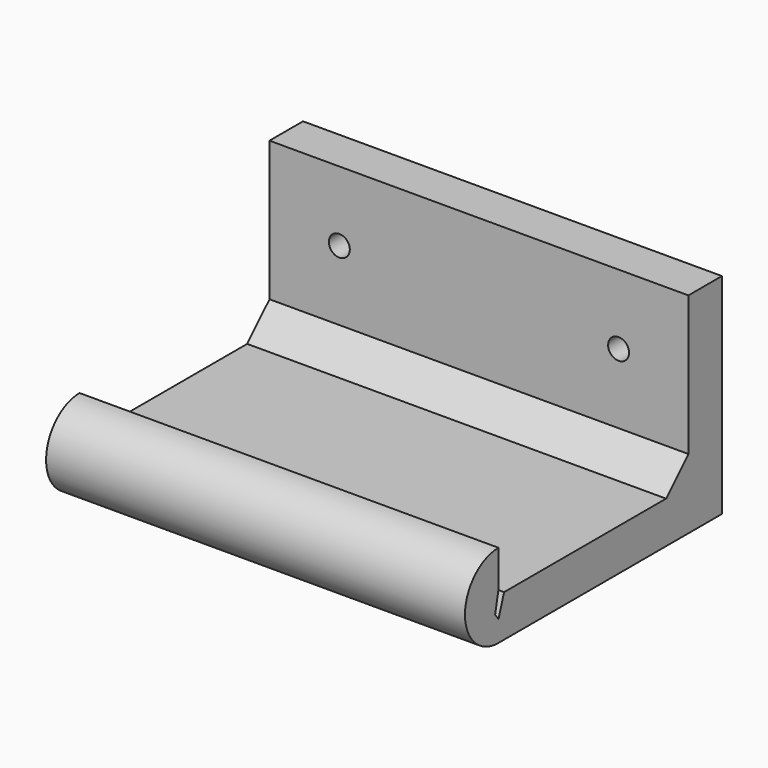
from build123d import *

# Parameters (mm, degrees)
F1_DEPTH = 30
F3_D     = 1.5
F5_DEPTH = 30


with BuildPart() as f1:
    # F0 (on Right) → F1 (new body)
    with BuildSketch(Plane.YZ):
        Polygon((-20, 0), (0, 0), (0, 15), (-3, 15), (-3, 5), (-5, 3), (-20, 3), align=None)
        with BuildLine():
            ThreePointArc((-20, 6), (-23, 3), (-20, 0))
            Line((-20, 0), (-20, 3))
            Line((-20, 3), (-20, 6))
        make_face()
    extrude(amount=-F1_DEPTH)

    # F3 (through all)
    with Locations(Plane.XZ.offset(3)):
        with Locations((-25, 10), (-5, 10)):
            Hole(F3_D / 2)

    # F4 (on face) → F5 (cut)
    with BuildSketch(Plane.YZ):
        Polygon((-19.5, 3), (-20, 3), (-20, 1.5), align=None)
        Polygon((-20, 1.5), (-20, 3), (-20, 3.4), (-20.3, 1.9), align=None)
    extrude(amount=-F5_DEPTH, mode=Mode.SUBTRACT)


solid = f1.part
